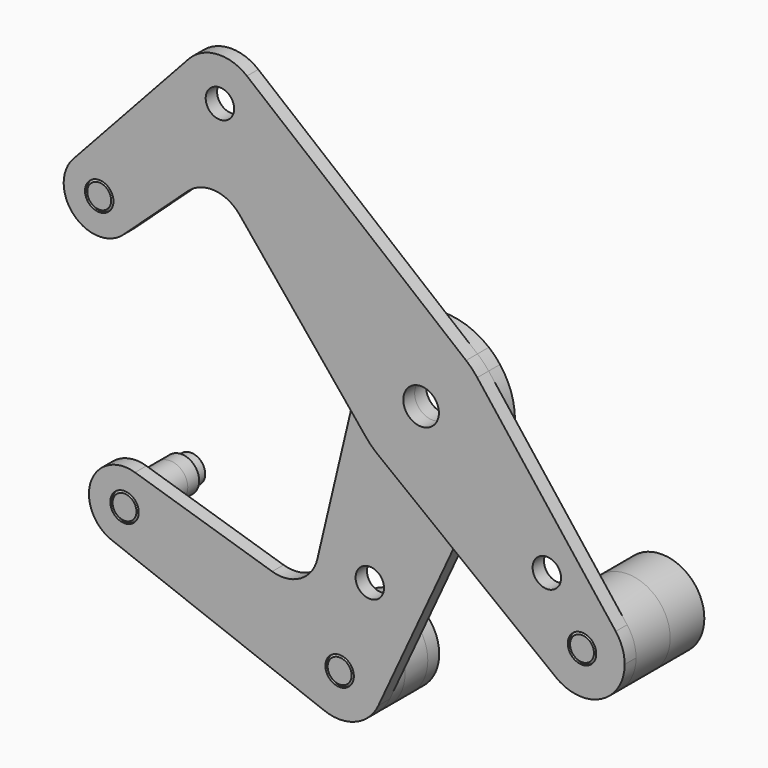
from build123d import *

# Parameters (mm, degrees)
F0_R     = 3.175
F0_R_2   = 3.9751
F2_DEPTH = 3.175
F3_DEPTH = 3.175
F4_R     = 3.96875
F4_R_2   = 9.525
F5_R     = 9.525
F5_R_2   = 3.96875
F6_DEPTH = 12.7
F8_SIZE  = 0.508


with BuildPart() as f2:
    # F0 (on Front) → F2 (new body)
    with BuildSketch(Plane.XZ):
        with BuildLine():
            ThreePointArc((45.4460244843, -35.9210244843), (44.9319692603, -32.834197757), (43.4452897348, -30.0805572564))
            ThreePointArc((43.4452897348, -30.0805572564), (29.1858323935, -29.1858323935), (30.0805572564, -43.4452897348))
            ThreePointArc((30.0805572564, -43.4452897348), (40.1100085291, -44.4754407515), (45.4460244843, -35.9210244843))
        make_face()
        with Locations((35.9210244843, -35.9210244843)):
            Circle(F0_R, mode=Mode.SUBTRACT)
        with BuildLine():
            ThreePointArc((-35.3762806053, 44.9012806053), (-36.2948443588, 48.9823197052), (-38.8733682976, 52.2762313313))
            ThreePointArc((-38.8733682976, 52.2762313313), (-45.5762567153, 54.4023348758), (-51.9112566393, 51.3499906317))
            ThreePointArc((-51.9112566393, 51.3499906317), (-48.3621766798, 36.0272835712), (-35.3762806053, 44.9012806053))
        make_face()
        with Locations((-44.9012806053, 44.9012806053)):
            Circle(F0_R, mode=Mode.SUBTRACT)
        with BuildLine():
            ThreePointArc((-63.9045489686, 17.9605122421), (-68.9579689065, 25.3555097706), (-77.6836956635, 23.3344372641))
            ThreePointArc((-77.6836956635, 23.3344372641), (-77.4547090442, 12.3478521665), (-66.4681239466, 12.1188655472))
            ThreePointArc((-66.4681239466, 12.1188655472), (-64.5736435, 14.7708119123), (-63.9045489686, 17.9605122421))
        make_face()
        with Locations((-71.8420489686, 17.9605122421)):
            Circle(F0_R, mode=Mode.SUBTRACT)
        with BuildLine():
            ThreePointArc((-12.2915845432, -10.0465205129), (-15.4695856604, -3.5647642974), (-15.4487205549, 3.654128927))
            Line((-15.4487205549, 3.654128927), (-17.2534569939, -3.9758341852))
            Line((-17.2534569939, -3.9758341852), (-12.2915845432, -10.0465205129))
        make_face()
        with BuildLine():
            Line((6.0407505093, -24.7851682751), (14.4125836687, -6.6553029228))
            ThreePointArc((14.4125836687, -6.6553029228), (3.7590876443, -15.4235172734), (-9.7341120464, -12.5404420842))
            Line((-9.7341120464, -12.5404420842), (6.0407505093, -24.7851682751))
        make_face()
        with BuildLine():
            ThreePointArc((-15.4487205549, 3.654128927), (-5.0938542582, 15.0355669596), (10.0465205129, 12.2915845432))
            Line((10.0465205129, 12.2915845432), (-38.8733682976, 52.2762313313))
            ThreePointArc((-38.8733682976, 52.2762313313), (-36.2948443588, 48.9823197052), (-35.3762806053, 44.9012806053))
            ThreePointArc((-35.3762806053, 44.9012806053), (-48.3621766798, 36.0272835712), (-51.9112566393, 51.3499906317))
            Line((-51.9112566393, 51.3499906317), (-77.6836956635, 23.3344372641))
            ThreePointArc((-77.6836956635, 23.3344372641), (-68.9579689065, 25.3555097706), (-63.9045489686, 17.9605122421))
            ThreePointArc((-63.9045489686, 17.9605122421), (-64.5736435, 14.7708119123), (-66.4681239466, 12.1188655472))
            Line((-66.4681239466, 12.1188655472), (-52.0886497329, 25.3470219755))
            ThreePointArc((-52.0886497329, 25.3470219755), (-46.1427463712, 27.4262419437), (-40.5505008917, 24.5273261188))
            Line((-40.5505008917, 24.5273261188), (-17.2534569939, -3.9758341852))
            Line((-17.2534569939, -3.9758341852), (-15.4487205549, 3.654128927))
        make_face()
        with BuildLine():
            ThreePointArc((12.5404420842, 9.7341120464), (15.0182412933, 5.1447112121), (15.875, 0))
            ThreePointArc((15.875, 0), (15.505086113, -3.4070411841), (14.4125836687, -6.6553029228))
            Line((14.4125836687, -6.6553029228), (6.0407505093, -24.7851682751))
            Line((6.0407505093, -24.7851682751), (30.0805572564, -43.4452897348))
            ThreePointArc((30.0805572564, -43.4452897348), (29.1858323935, -29.1858323935), (43.4452897348, -30.0805572564))
            Line((43.4452897348, -30.0805572564), (12.5404420842, 9.7341120464))
        make_face()
        with Locations((28.0722806345, -23.5821525739)):
            Circle(F0_R, mode=Mode.SUBTRACT)
        with BuildLine():
            ThreePointArc((14.4125836687, -6.6553029228), (15.505086113, -3.4070411841), (15.875, 0))
            ThreePointArc((15.875, 0), (15.0182412933, 5.1447112121), (12.5404420842, 9.7341120464))
            ThreePointArc((12.5404420842, 9.7341120464), (11.3656449986, 11.0832187908), (10.0465205129, 12.2915845432))
            ThreePointArc((10.0465205129, 12.2915845432), (-5.0938542582, 15.0355669596), (-15.4487205549, 3.654128927))
            ThreePointArc((-15.4487205549, 3.654128927), (-15.4695856604, -3.5647642974), (-12.2915845432, -10.0465205129))
            ThreePointArc((-12.2915845432, -10.0465205129), (-11.0832187908, -11.3656449986), (-9.7341120464, -12.5404420842))
            ThreePointArc((-9.7341120464, -12.5404420842), (3.7590876443, -15.4235172734), (14.4125836687, -6.6553029228))
        make_face()
        Circle(F0_R_2, mode=Mode.SUBTRACT)
    extrude(amount=F2_DEPTH)


with BuildPart() as f3:
    # F0 (on Front) → F3 (new body)
    with BuildSketch(Plane.XZ):
        with BuildLine():
            ThreePointArc((-66.3869112852, -35.8650709885), (-76.2444566474, -40.8549475191), (-71.5650654677, -50.8636120927))
            ThreePointArc((-71.5650654677, -50.8636120927), (-64.2364119334, -49.980417325), (-60.804021658, -43.4452897348))
            ThreePointArc((-60.804021658, -43.4452897348), (-62.3503705064, -38.738157571), (-66.3869112852, -35.8650709885))
        make_face()
        with Locations((-68.741521658, -43.4452897348)):
            Circle(F0_R, mode=Mode.SUBTRACT)
        with BuildLine():
            ThreePointArc((14.4125836687, -6.6553029228), (15.505086113, -3.4070411841), (15.875, 0))
            ThreePointArc((15.875, 0), (15.0182412933, 5.1447112121), (12.5404420842, 9.7341120464))
            ThreePointArc((12.5404420842, 9.7341120464), (11.3656449986, 11.0832187908), (10.0465205129, 12.2915845432))
            ThreePointArc((10.0465205129, 12.2915845432), (-5.0938542582, 15.0355669596), (-15.4487205549, 3.654128927))
            ThreePointArc((-15.4487205549, 3.654128927), (-15.4695856604, -3.5647642974), (-12.2915845432, -10.0465205129))
            ThreePointArc((-12.2915845432, -10.0465205129), (-11.0832187908, -11.3656449986), (-9.7341120464, -12.5404420842))
            ThreePointArc((-9.7341120464, -12.5404420842), (3.7590876443, -15.4235172734), (14.4125836687, -6.6553029228))
        make_face()
        Circle(F0_R_2, mode=Mode.SUBTRACT)
        with BuildLine():
            ThreePointArc((-24.1109902973, -68.9254667448), (-17.1256354604, -68.8431443247), (-12.0751875245, -64.016661669))
            ThreePointArc((-12.0751875245, -64.016661669), (-11.4196860579, -62.0677046258), (-11.1977377257, -60.0234799154))
            ThreePointArc((-11.1977377257, -60.0234799154), (-26.1288693952, -52.1813268072), (-24.1109902973, -68.9254667448))
        make_face()
        with Locations((-20.7227377257, -60.0234799154)):
            Circle(F0_R, mode=Mode.SUBTRACT)
        with BuildLine():
            Line((6.0407505093, -24.7851682751), (14.4125836687, -6.6553029228))
            ThreePointArc((14.4125836687, -6.6553029228), (3.7590876443, -15.4235172734), (-9.7341120464, -12.5404420842))
            Line((-9.7341120464, -12.5404420842), (6.0407505093, -24.7851682751))
        make_face()
        with BuildLine():
            Line((6.0407505093, -24.7851682751), (-9.7341120464, -12.5404420842))
            ThreePointArc((-9.7341120464, -12.5404420842), (-11.0832187908, -11.3656449986), (-12.2915845432, -10.0465205129))
            Line((-12.2915845432, -10.0465205129), (-17.2534569939, -3.9758341852))
            Line((-17.2534569939, -3.9758341852), (-25.6822977536, -39.6108126168))
            ThreePointArc((-25.6822977536, -39.6108126168), (-29.4778451519, -44.6853772936), (-35.777394757, -45.3731719465))
            Line((-35.777394757, -45.3731719465), (-66.3869112852, -35.8650709885))
            ThreePointArc((-66.3869112852, -35.8650709885), (-62.3503705064, -38.738157571), (-60.804021658, -43.4452897348))
            ThreePointArc((-60.804021658, -43.4452897348), (-64.2364119334, -49.980417325), (-71.5650654677, -50.8636120927))
            Line((-71.5650654677, -50.8636120927), (-24.1109902973, -68.9254667448))
            ThreePointArc((-24.1109902973, -68.9254667448), (-26.1288693952, -52.1813268072), (-11.1977377257, -60.0234799154))
            ThreePointArc((-11.1977377257, -60.0234799154), (-11.4196860579, -62.0677046258), (-12.0751875245, -64.016661669))
            Line((-12.0751875245, -64.016661669), (6.0407505093, -24.7851682751))
        make_face()
        with Locations((-13.9837034173, -40.5038442469)):
            Circle(F0_R, mode=Mode.SUBTRACT)
        with BuildLine():
            ThreePointArc((-12.2915845432, -10.0465205129), (-15.4695856604, -3.5647642974), (-15.4487205549, 3.654128927))
            Line((-15.4487205549, 3.654128927), (-17.2534569939, -3.9758341852))
            Line((-17.2534569939, -3.9758341852), (-12.2915845432, -10.0465205129))
        make_face()
    extrude(amount=-F3_DEPTH)


with BuildPart() as f6:
    # F4 (on face) + F5 (on face) → F6 (new body, through all)
    with BuildSketch(Plane.XZ.offset(3.175)):
        with Locations((-71.8420489686, 17.9605122421)):
            Circle(F4_R)
        with Locations((35.9210244843, -35.9210244843)):
            Circle(F4_R_2)
    with BuildSketch(Plane.XZ):
        with Locations((-20.7227377257, -60.0234799154)):
            Circle(F5_R)
        with Locations((-68.741521658, -43.4452897348)):
            Circle(F5_R_2)
    extrude(amount=-F6_DEPTH)

    # F7: cut F2, F3
    add(f2.part, mode=Mode.SUBTRACT)
    add(f3.part, mode=Mode.SUBTRACT)

    # F8
    f8_edges = [f6.edges().sort_by_distance(p)[0] for p in [
        (-75.017049, -3.175, 17.960512),
        (-71.916522, 0, -43.44529),
        (-23.897738, 0, -60.02348),
        (32.746024, -3.175, -35.921024),
    ]]
    chamfer(f8_edges, length=F8_SIZE)

    # F9: F6 across plane


with BuildPart() as f6_1:
    add(f6.part)
    add(f6.part.mirror(Plane.XZ.offset(-9.525)))


solid = Compound([f2.part, f3.part, f6_1.part])
